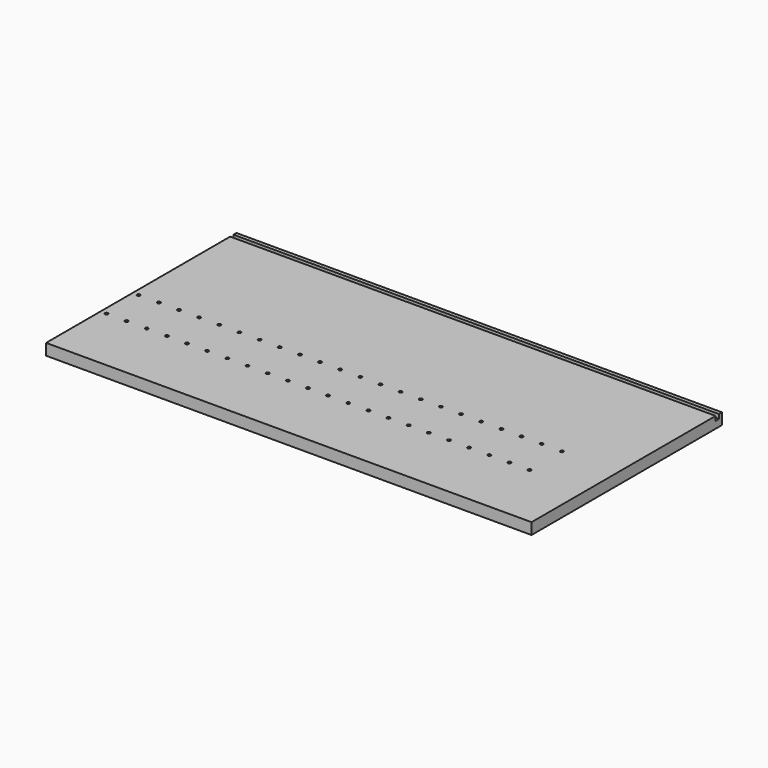
from build123d import *

# Parameters (mm, degrees)
SKETCH_W             = 771
SKETCH_H             = 378
PAD_DEPTH            = 18
SKETCH001_R          = 2.5
POCKET_DEPTH         = 9
SKETCH003_W          = 6.5
SKETCH003_H          = 7
POCKET001_DEPTH      = 505
POCKET001_DEPTH_BACK = -505


with BuildPart() as part:
    # Sketch → Pad (new body)
    with BuildSketch(Plane.XY):
        Rectangle(SKETCH_W, SKETCH_H)
    extrude(amount=PAD_DEPTH)

    # Sketch001 → Pocket (cut)
    with BuildSketch(Plane.XY.offset(9)):
        with Locations((-376, -81)):
            Circle(SKETCH001_R)
        with Locations((-344, -81)):
            Circle(SKETCH001_R)
        with Locations((-312, -81)):
            Circle(SKETCH001_R)
        with Locations((-280, -81)):
            Circle(SKETCH001_R)
        with Locations((-248, -81)):
            Circle(SKETCH001_R)
        with Locations((-216, -81)):
            Circle(SKETCH001_R)
        with Locations((-184, -81)):
            Circle(SKETCH001_R)
        with Locations((-152, -81)):
            Circle(SKETCH001_R)
        with Locations((-120, -81)):
            Circle(SKETCH001_R)
        with Locations((-88, -81)):
            Circle(SKETCH001_R)
        with Locations((-56, -81)):
            Circle(SKETCH001_R)
        with Locations((-24, -81)):
            Circle(SKETCH001_R)
        with Locations((8, -81)):
            Circle(SKETCH001_R)
        with Locations((40, -81)):
            Circle(SKETCH001_R)
        with Locations((72, -81)):
            Circle(SKETCH001_R)
        with Locations((104, -81)):
            Circle(SKETCH001_R)
        with Locations((136, -81)):
            Circle(SKETCH001_R)
        with Locations((168, -81)):
            Circle(SKETCH001_R)
        with Locations((200, -81)):
            Circle(SKETCH001_R)
        with Locations((232, -81)):
            Circle(SKETCH001_R)
        with Locations((264, -81)):
            Circle(SKETCH001_R)
        with Locations((296, -81)):
            Circle(SKETCH001_R)
        with Locations((-376, -17)):
            Circle(SKETCH001_R)
        with Locations((-344, -17)):
            Circle(SKETCH001_R)
        with Locations((-312, -17)):
            Circle(SKETCH001_R)
        with Locations((-280, -17)):
            Circle(SKETCH001_R)
        with Locations((-248, -17)):
            Circle(SKETCH001_R)
        with Locations((-216, -17)):
            Circle(SKETCH001_R)
        with Locations((-184, -17)):
            Circle(SKETCH001_R)
        with Locations((-152, -17)):
            Circle(SKETCH001_R)
        with Locations((-120, -17)):
            Circle(SKETCH001_R)
        with Locations((-88, -17)):
            Circle(SKETCH001_R)
        with Locations((-56, -17)):
            Circle(SKETCH001_R)
        with Locations((-24, -17)):
            Circle(SKETCH001_R)
        with Locations((8, -17)):
            Circle(SKETCH001_R)
        with Locations((40, -17)):
            Circle(SKETCH001_R)
        with Locations((72, -17)):
            Circle(SKETCH001_R)
        with Locations((104, -17)):
            Circle(SKETCH001_R)
        with Locations((136, -17)):
            Circle(SKETCH001_R)
        with Locations((168, -17)):
            Circle(SKETCH001_R)
        with Locations((200, -17)):
            Circle(SKETCH001_R)
        with Locations((232, -17)):
            Circle(SKETCH001_R)
        with Locations((264, -17)):
            Circle(SKETCH001_R)
        with Locations((296, -17)):
            Circle(SKETCH001_R)
    extrude(amount=POCKET_DEPTH, mode=Mode.SUBTRACT)

    # Sketch003 → Pocket001 (cut, two sides)
    with BuildSketch(Plane.YZ) as pocket001_sk:
        with Locations((179.75, 14.5)):
            Rectangle(SKETCH003_W, SKETCH003_H)
    extrude(amount=-POCKET001_DEPTH, mode=Mode.SUBTRACT)
    extrude(pocket001_sk.sketch, amount=-POCKET001_DEPTH_BACK, mode=Mode.SUBTRACT)


solid = part.part
